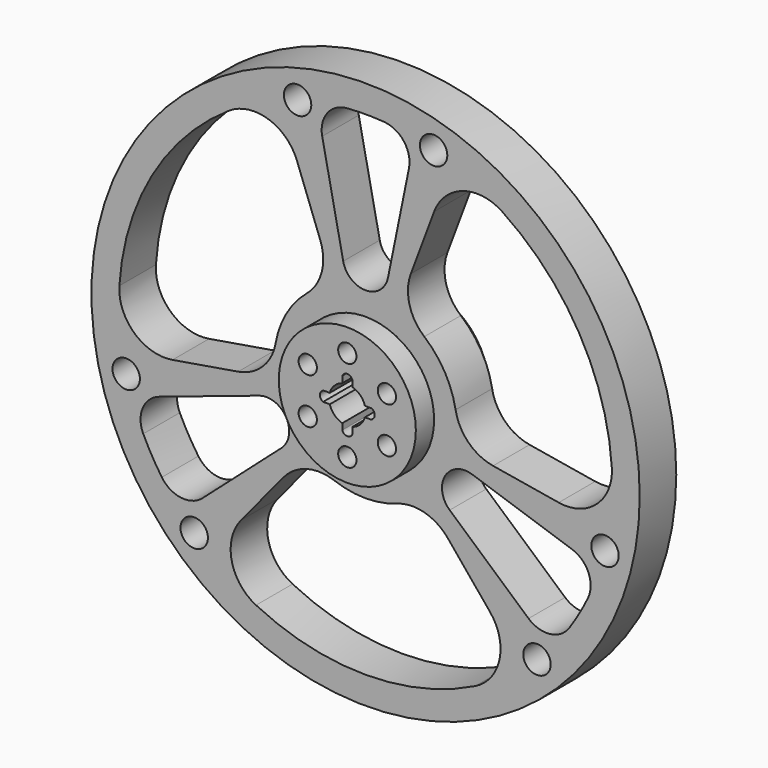
from build123d import *

# Parameters (mm, degrees)
F0_R     = 1524
F0_R_2   = 76.2
F0_R_3   = 381
F0_R_4   = 50.8
F1_DEPTH = 127
F2_DEPTH = 254


with BuildPart() as f1:
    # F0 (on Front) → F1 (new body, symmetric)
    with BuildSketch(Plane.XZ):
        Circle(F0_R)
        with Locations((-952.7934209216, -986.6464701445)):
            Circle(F0_R_2, mode=Mode.SUBTRACT)
        with BuildLine():
            ThreePointArc((-905.9649252706, -801.5300581884), (-1025.7596879891, -838.6237549571), (-1132.816748196, -773.3128571327))
            ThreePointArc((-1132.816748196, -773.3128571327), (-1187.8404438307, -685.8), (-1236.116953448, -594.3916532038))
            ThreePointArc((-1236.116953448, -594.3916532038), (-1239.1493200045, -469.022070498), (-1147.1278549233, -383.8236111278))
            Line((-1147.1278549233, -383.8236111278), (-591.9672795655, -198.069481041))
            ThreePointArc((-591.9672795655, -198.069481041), (-441.6843619214, -255.0065852522), (-467.5168420786, -413.6239617924))
            Line((-467.5168420786, -413.6239617924), (-905.9649252706, -801.5300581884))
        make_face(mode=Mode.SUBTRACT)
        with Locations((-1330.8576181602, -331.8200720045)):
            Circle(F0_R_2, mode=Mode.SUBTRACT)
        with BuildLine():
            ThreePointArc((173.9859882065, -477.2765193342), (327.7273635176, -470.8420273415), (456.9716264903, -554.3509110508))
            Line((456.9716264903, -554.3509110508), (692.2780797644, -839.8004645615))
            ThreePointArc((692.2780797644, -839.8004645615), (744.6718165916, -1054.4699417253), (609.0775800349, -1228.9471353557))
            ThreePointArc((609.0775800349, -1228.9471353557), (0, -1371.6), (-609.0775800349, -1228.9471353557))
            ThreePointArc((-609.0775800349, -1228.9471353557), (-744.6718165916, -1054.4699417253), (-692.2780797644, -839.8004645615))
            Line((-692.2780797644, -839.8004645615), (-456.9716264903, -554.3509110508))
            ThreePointArc((-456.9716264903, -554.3509110508), (-327.7273635176, -470.8420273415), (-173.9859882065, -477.2765193342))
            ThreePointArc((-173.9859882065, -477.2765193342), (0, -508), (173.9859882065, -477.2765193342))
        make_face(mode=Mode.SUBTRACT)
        with Locations((952.7934209216, -986.6464701445)):
            Circle(F0_R_2, mode=Mode.SUBTRACT)
        with BuildLine():
            ThreePointArc((1147.1278549233, -383.8236111278), (1239.1493200045, -469.022070498), (1236.116953448, -594.3916532039))
            ThreePointArc((1236.116953448, -594.3916532039), (1187.8404438307, -685.8), (1132.816748196, -773.3128571327))
            ThreePointArc((1132.816748196, -773.3128571327), (1025.7596879891, -838.6237549571), (905.9649252706, -801.5300581884))
            Line((905.9649252706, -801.5300581884), (467.5168420786, -413.6239617924))
            ThreePointArc((467.5168420786, -413.6239617924), (441.6843619214, -255.0065852522), (591.9672795655, -198.069481041))
            Line((591.9672795655, -198.069481041), (1147.1278549233, -383.8236111278))
        make_face(mode=Mode.SUBTRACT)
        with Locations((1330.8576181602, -331.8200720045)):
            Circle(F0_R_2, mode=Mode.SUBTRACT)
        with BuildLine():
            ThreePointArc((-1368.8382291435, 86.9969104921), (-1187.8404438307, 685.8), (-759.7606491087, 1141.9502248636))
            ThreePointArc((-759.7606491087, 1141.9502248636), (-540.8618487654, 1172.1396815133), (-381.149496538, 1019.4306358399))
            Line((-381.149496538, 1019.4306358399), (-251.5961583359, 672.9244928747))
            ThreePointArc((-251.5961583359, 672.9244928747), (-243.8974750883, 519.2412359922), (-326.34059627, 389.3145453565))
            ThreePointArc((-326.34059627, 389.3145453565), (-439.9409051225, 254), (-500.3265844765, 87.9619739777))
            ThreePointArc((-500.3265844765, 87.9619739777), (-571.6248386059, -48.3992086508), (-708.5677848262, -118.5735818239))
            Line((-708.5677848262, -118.5735818239), (-1073.4275763024, -179.6301712784))
            ThreePointArc((-1073.4275763024, -179.6301712784), (-1285.533665357, -117.669739788), (-1368.8382291435, 86.9969104921))
        make_face(mode=Mode.SUBTRACT)
        with BuildLine():
            ThreePointArc((-103.300205252, 1367.7045103365), (0, 1371.6), (103.300205252, 1367.7045103365))
            ThreePointArc((103.300205252, 1367.7045103365), (213.3896320154, 1307.6458254551), (241.1629296527, 1185.3536693162))
            Line((241.1629296527, 1185.3536693162), (124.4504374868, 611.6934428334))
            ThreePointArc((124.4504374868, 611.6934428334), (80.3535767274, 538.6653047059), (0, 510.0131705043))
            ThreePointArc((0, 510.0131705043), (-80.3535767274, 538.6653047059), (-124.4504374868, 611.6934428334))
            Line((-124.4504374868, 611.6934428334), (-241.1629296527, 1185.3536693162))
            ThreePointArc((-241.1629296527, 1185.3536693162), (-213.3896320154, 1307.6458254551), (-103.300205252, 1367.7045103365))
        make_face(mode=Mode.SUBTRACT)
        with Locations((-378.0641972386, 1318.466542149)):
            Circle(F0_R_2, mode=Mode.SUBTRACT)
        Circle(F0_R_3, mode=Mode.SUBTRACT)
        with BuildLine():
            ThreePointArc((326.34059627, 389.3145453565), (243.8974750883, 519.2412359922), (251.5961583359, 672.9244928747))
            Line((251.5961583359, 672.9244928747), (381.149496538, 1019.4306358399))
            ThreePointArc((381.149496538, 1019.4306358399), (540.8618487654, 1172.1396815133), (759.7606491087, 1141.9502248636))
            ThreePointArc((759.7606491087, 1141.9502248636), (1187.8404438307, 685.8), (1368.8382291435, 86.9969104921))
            ThreePointArc((1368.8382291435, 86.9969104921), (1285.533665357, -117.669739788), (1073.4275763024, -179.6301712784))
            Line((1073.4275763024, -179.6301712784), (708.5677848262, -118.5735818239))
            ThreePointArc((708.5677848262, -118.5735818239), (571.6248386059, -48.3992086508), (500.3265844765, 87.9619739777))
            ThreePointArc((500.3265844765, 87.9619739777), (439.9409051225, 254), (326.34059627, 389.3145453565))
        make_face(mode=Mode.SUBTRACT)
        with Locations((378.0641972386, 1318.466542149)):
            Circle(F0_R_2, mode=Mode.SUBTRACT)
        Circle(F0_R_3)
        with Locations((-219.9704525612, -127)):
            Circle(F0_R_4, mode=Mode.SUBTRACT)
        with Locations((0, -254)):
            Circle(F0_R_4, mode=Mode.SUBTRACT)
        with Locations((219.9704525612, -127)):
            Circle(F0_R_4, mode=Mode.SUBTRACT)
        with Locations((-219.9704525612, 127)):
            Circle(F0_R_4, mode=Mode.SUBTRACT)
        with BuildLine():
            ThreePointArc((-97.6641883073, 28.004755351), (-71.8420489686, 71.8420489686), (-28.004755351, 97.6641883073))
            Line((-28.004755351, 97.6641883073), (-28.004755351, 134.5604298966))
            ThreePointArc((-28.004755351, 134.5604298966), (0.9445008511, 152.3624421781), (28.004755351, 131.8024396896))
            Line((28.004755351, 131.8024396896), (28.004755351, 97.6641883073))
            ThreePointArc((28.004755351, 97.6641883073), (71.8420489686, 71.8420489686), (97.6641883073, 28.004755351))
            Line((97.6641883073, 28.004755351), (134.5604298966, 28.004755351))
            ThreePointArc((134.5604298966, 28.004755351), (152.3624421781, -0.9445008511), (131.8024396896, -28.004755351))
            Line((131.8024396896, -28.004755351), (97.6641883073, -28.004755351))
            ThreePointArc((97.6641883073, -28.004755351), (71.8420489686, -71.8420489686), (28.004755351, -97.6641883073))
            Line((28.004755351, -97.6641883073), (28.004755351, -134.5604298966))
            ThreePointArc((28.004755351, -134.5604298966), (16.9665053345, -147.5121393864), (0.6658066859, -152.3985456015))
            ThreePointArc((0.6658066859, -152.3985456015), (-17.0098217689, -146.750383203), (-28.004755351, -131.8024396896))
            Line((-28.004755351, -131.8024396896), (-28.004755351, -97.6641883073))
            ThreePointArc((-28.004755351, -97.6641883073), (-71.8420489686, -71.8420489686), (-97.6641883073, -28.004755351))
            Line((-97.6641883073, -28.004755351), (-134.5604298966, -28.004755351))
            ThreePointArc((-134.5604298966, -28.004755351), (-152.3624421781, 0.9445008511), (-131.8024396896, 28.004755351))
            Line((-131.8024396896, 28.004755351), (-97.6641883073, 28.004755351))
        make_face(mode=Mode.SUBTRACT)
        with Locations((219.9704525612, 127)):
            Circle(F0_R_4, mode=Mode.SUBTRACT)
        with Locations((0, 254)):
            Circle(F0_R_4, mode=Mode.SUBTRACT)
    extrude(amount=F1_DEPTH, both=True)

    # F0 (on Front) → F2 (join, symmetric)
    with BuildSketch(Plane.XZ):
        Circle(F0_R_3)
        with Locations((-219.9704525612, -127)):
            Circle(F0_R_4, mode=Mode.SUBTRACT)
        with Locations((0, -254)):
            Circle(F0_R_4, mode=Mode.SUBTRACT)
        with Locations((219.9704525612, -127)):
            Circle(F0_R_4, mode=Mode.SUBTRACT)
        with Locations((-219.9704525612, 127)):
            Circle(F0_R_4, mode=Mode.SUBTRACT)
        with BuildLine():
            ThreePointArc((-97.6641883073, 28.004755351), (-71.8420489686, 71.8420489686), (-28.004755351, 97.6641883073))
            Line((-28.004755351, 97.6641883073), (-28.004755351, 134.5604298966))
            ThreePointArc((-28.004755351, 134.5604298966), (0.9445008511, 152.3624421781), (28.004755351, 131.8024396896))
            Line((28.004755351, 131.8024396896), (28.004755351, 97.6641883073))
            ThreePointArc((28.004755351, 97.6641883073), (71.8420489686, 71.8420489686), (97.6641883073, 28.004755351))
            Line((97.6641883073, 28.004755351), (134.5604298966, 28.004755351))
            ThreePointArc((134.5604298966, 28.004755351), (152.3624421781, -0.9445008511), (131.8024396896, -28.004755351))
            Line((131.8024396896, -28.004755351), (97.6641883073, -28.004755351))
            ThreePointArc((97.6641883073, -28.004755351), (71.8420489686, -71.8420489686), (28.004755351, -97.6641883073))
            Line((28.004755351, -97.6641883073), (28.004755351, -134.5604298966))
            ThreePointArc((28.004755351, -134.5604298966), (16.9665053345, -147.5121393864), (0.6658066859, -152.3985456015))
            ThreePointArc((0.6658066859, -152.3985456015), (-17.0098217689, -146.750383203), (-28.004755351, -131.8024396896))
            Line((-28.004755351, -131.8024396896), (-28.004755351, -97.6641883073))
            ThreePointArc((-28.004755351, -97.6641883073), (-71.8420489686, -71.8420489686), (-97.6641883073, -28.004755351))
            Line((-97.6641883073, -28.004755351), (-134.5604298966, -28.004755351))
            ThreePointArc((-134.5604298966, -28.004755351), (-152.3624421781, 0.9445008511), (-131.8024396896, 28.004755351))
            Line((-131.8024396896, 28.004755351), (-97.6641883073, 28.004755351))
        make_face(mode=Mode.SUBTRACT)
        with Locations((219.9704525612, 127)):
            Circle(F0_R_4, mode=Mode.SUBTRACT)
        with Locations((0, 254)):
            Circle(F0_R_4, mode=Mode.SUBTRACT)
    extrude(amount=F2_DEPTH, both=True)


solid = f1.part
